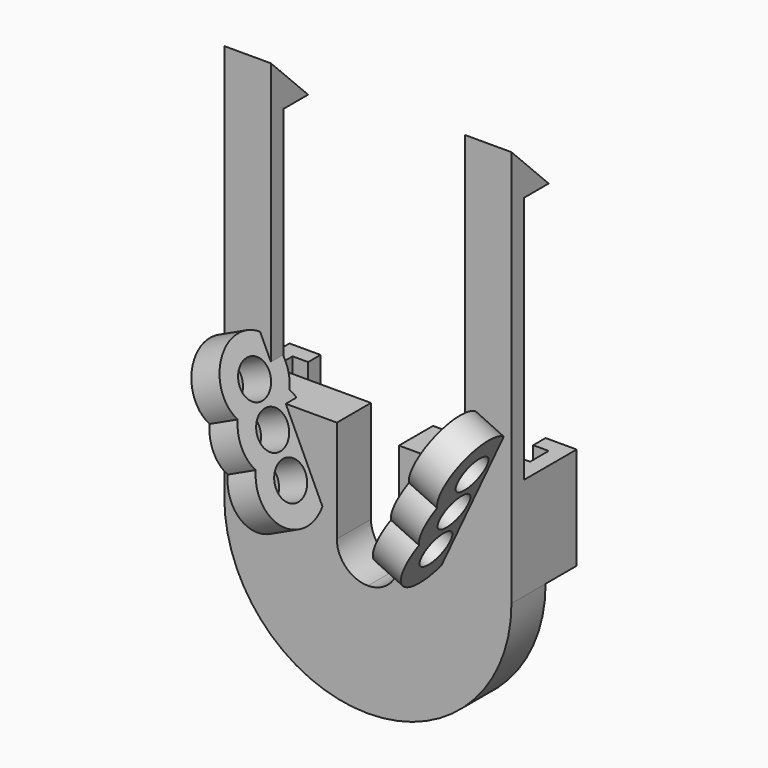
from build123d import *

# Parameters (mm, degrees)
SKETCH002_R  = 2.35
PAD005_DEPTH = 4
PAD002_DEPTH = 8
PAD001_DEPTH = 5.5
PAD_DEPTH    = 13.2
SKETCH005_W  = 6
SKETCH005_H  = 2
PAD003_DEPTH = 38
PAD004_DEPTH = 6
POCKET_DEPTH = 6


with BuildPart() as pad005:
    # Sketch002 → Pad005 (new body)
    with BuildSketch(Plane(origin=(5, -3, 10), x_dir=(0.422618, 0, -0.906308), z_dir=(0.906308, 0, 0.422618))):
        with BuildLine():
            ThreePointArc((-2.75, 4.175823), (-10.5, 0), (-2.75, -4.175823))
            ThreePointArc((-2.75, -4.175823), (0, -5), (2.75, -4.175823))
            ThreePointArc((2.75, -4.175823), (10.5, 0), (2.75, 4.175823))
            ThreePointArc((2.75, 4.175823), (0, 5), (-2.75, 4.175823))
        make_face()
        with Locations((-5.5, 0)):
            Circle(SKETCH002_R, mode=Mode.SUBTRACT)
        Circle(SKETCH002_R, mode=Mode.SUBTRACT)
        with Locations((5.5, 0)):
            Circle(SKETCH002_R, mode=Mode.SUBTRACT)
    extrude(amount=PAD005_DEPTH)


with BuildPart() as pad002:
    # Sketch004 → Pad002 (new body)
    with BuildSketch(Plane.XZ):
        with BuildLine():
            Line((14.5, 20), (18.5, 20))
            Line((18.5, 20), (18.5, -4))
            ThreePointArc((14.5, 1.7e-05), (15.671567, -2.828421), (18.5, -4))
            Line((14.5, 20), (14.5, 1.7e-05))
        make_face()
    extrude(amount=-PAD002_DEPTH)


with BuildPart() as pad001:
    # Sketch001 → Pad001 (new body)
    with BuildSketch(Plane.XZ):
        with BuildLine():
            ThreePointArc((0, 0), (5.418525, -13.081475), (18.5, -18.5))
            Line((18.5, 0), (18.5, -18.5))
            Line((18.5, 0), (0, 0))
        make_face()
    extrude(amount=-PAD001_DEPTH)


with BuildPart() as fusion001:
    # Sketch → Pad (new body)
    with BuildSketch(Plane.XY):
        Polygon((2, 5.5), (18.5, 5.5), (18.5, 0), (0, 0), (0, 10.5), (4, 10.5), (4, 8.5), (2, 8.5), align=None)
    extrude(amount=PAD_DEPTH)

    # Fusion: union Pad001
    add(pad001.part)

    # Cut: cut Pad002
    add(pad002.part, mode=Mode.SUBTRACT)

    # Sketch005 → Pad003 (new body)
    with BuildSketch(Plane.XY.offset(13.2)):
        with Locations((3, 1)):
            Rectangle(SKETCH005_W, SKETCH005_H)
    extrude(amount=PAD003_DEPTH)

    # Sketch006 → Pad004 (new body)
    with BuildSketch(Plane(origin=(0, 0, 0), x_dir=(0, -1, 0), z_dir=(-1, 0, 0))):
        Polygon((0, 51.2), (0, 45.2), (-6, 45.2), align=None)
    extrude(amount=-PAD004_DEPTH)

    # Sketch007 → Pocket (cut)
    with BuildSketch(Plane(origin=(0, 0, 0), x_dir=(0, -1, 0), z_dir=(-1, 0, 0))):
        Polygon((-2, 51.2), (0, 51.2), (-2, 49.2), align=None)
    extrude(amount=-POCKET_DEPTH, mode=Mode.SUBTRACT)

    # Fusion001: union Pad005
    add(pad005.part)


with BuildPart() as part_mirroring:
    # Part__Mirroring: instance of Fusion001
    add(fusion001.part.mirror(Plane(origin=(0, 0, 0), x_dir=(0, -1, 0), z_dir=(1, 0, 0))))


with BuildPart() as part_mirroring_1:
    # Part__Mirroring placement: moved
    add(part_mirroring.part.moved(Location((37, 0, 0))))


with BuildPart() as fusion002:
    # Fusion002 base: copy of Fusion001
    add(fusion001.part)

    # Fusion002: union Part__Mirroring
    add(part_mirroring_1.part)


solid = fusion002.part
